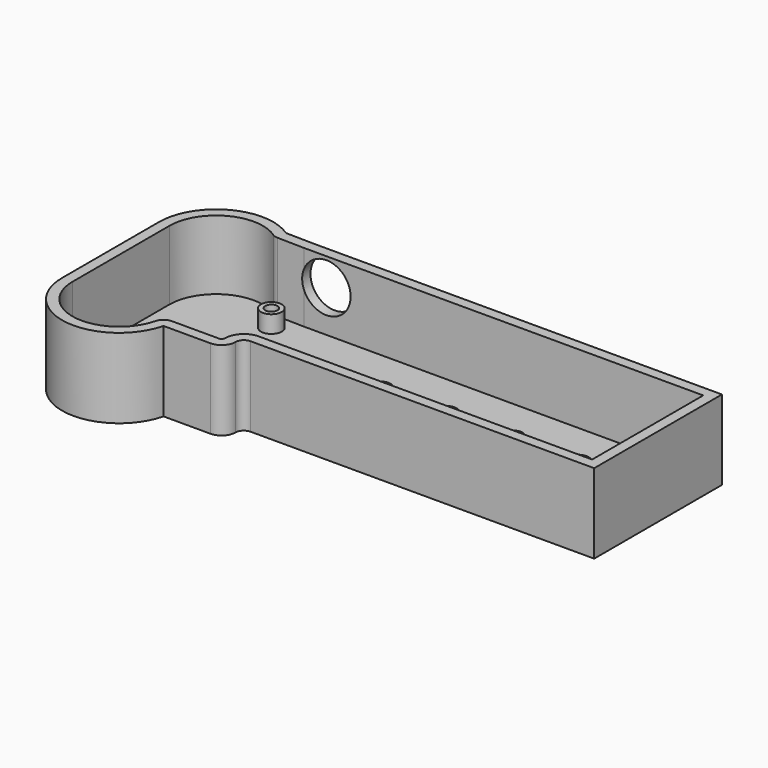
from build123d import *

# Parameters (mm, degrees)
PAD_DEPTH       = 23
POCKET_DEPTH    = 20
SKETCH002_R     = 3
PAD001_DEPTH    = 5
SKETCH003_R     = 1.75
POCKET001_DEPTH = 7
SKETCH004_R     = 7
POCKET002_DEPTH = 37


with BuildPart() as part:
    # Sketch (on Face1 of ShapeBinder) → Pad (new body)
    with BuildSketch(Plane.XY.offset(1.6)):
        with BuildLine():
            Line((65.104061, -85.85), (78.671175, -85.849875))
            ThreePointArc((78.671175, -85.849875), (81.499513, -84.678339), (82.67105, -81.850001))
            ThreePointArc((85.065002, -79.425001), (83.370362, -80.146209), (82.67105, -81.850001))
            Line((85.065002, -79.425001), (184.315, -79.425))
            Line((184.315, -79.425), (184.315, -33.325))
            Line((184.315, -33.325), (85.065, -33.325))
            Line((85.065, -33.325), (66.055583, -33.325))
            Line((66.055583, -33.325), (58.318648, -33.167991))
            ThreePointArc((58.318648, -33.167991), (41.347688, -32.282578), (32.59625, -46.85))
            Line((32.59625, -46.85), (32.59625, -81.85))
            ThreePointArc((32.59625, -81.85), (47.081166, -98.22649), (65.104061, -85.85))
        make_face()
    extrude(amount=PAD_DEPTH)

    # Sketch001 (on Face11 of Pad) → Pocket (cut)
    with BuildSketch(Plane.XY.offset(24.6)):
        with BuildLine():
            Line((85.065004, -76.42489), (181.315, -76.425))
            Line((181.315, -76.425), (181.315, -36.325))
            Line((181.315, -36.325), (66.055583, -36.325))
            ThreePointArc((66.055583, -36.325), (66.025147, -36.324846), (65.994715, -36.324382))
            Line((65.994715, -36.324382), (58.25778, -36.167373))
            ThreePointArc((58.25778, -36.167373), (57.41292, -36.028001), (56.641848, -35.655629))
            ThreePointArc((56.641848, -35.655629), (42.756517, -34.9312), (35.59625, -46.85))
            Line((35.59625, -46.85), (35.59625, -81.85))
            ThreePointArc((35.59625, -81.85), (47.447597, -95.248953), (62.193575, -85.122625))
            ThreePointArc((62.193575, -85.122625), (63.25771, -83.485372), (65.104092, -82.849876))
            Line((65.104092, -82.849876), (78.671175, -82.849878))
            ThreePointArc((78.671175, -82.849878), (79.378193, -82.557021), (79.67105, -81.850003))
            ThreePointArc((85.065004, -76.42489), (81.249022, -78.024869), (79.67105, -81.850003))
        make_face()
    extrude(amount=-POCKET_DEPTH, mode=Mode.SUBTRACT)

    # Sketch002 (on Face26 of Pocket) → Pad001 (join)
    with BuildSketch(Plane.XY.offset(4.6)):
        with Locations((64.665, -78.375)):
            Circle(SKETCH002_R)
        with Locations((49.065, -64.325)):
            Circle(SKETCH002_R)
        with Locations((60.665, -41.375)):
            Circle(SKETCH002_R)
        with Locations((104.065, -56.325)):
            Circle(SKETCH002_R)
        with Locations((123.165, -56.375)):
            Circle(SKETCH002_R)
        with Locations((142.215, -56.375)):
            Circle(SKETCH002_R)
        with Locations((161.265, -56.375)):
            Circle(SKETCH002_R)
    extrude(amount=PAD001_DEPTH)

    # Sketch003 (on Face37 of Pad001) → Pocket001 (cut)
    with BuildSketch(Plane.XY.offset(9.6)):
        with Locations((49.065, -64.325)):
            Circle(SKETCH003_R)
        with Locations((64.665, -78.375)):
            Circle(SKETCH003_R)
        with Locations((60.665, -41.375)):
            Circle(SKETCH003_R)
        with Locations((142.215, -56.375)):
            Circle(SKETCH003_R)
        with Locations((161.265, -56.375)):
            Circle(SKETCH003_R)
        with Locations((104.065, -56.325)):
            Circle(SKETCH003_R)
        with Locations((123.165, -56.375)):
            Circle(SKETCH003_R)
    extrude(amount=-POCKET001_DEPTH, mode=Mode.SUBTRACT)

    # Sketch004 → Pocket002 (cut)
    with BuildSketch(Plane.XZ):
        with Locations((72.507256, 16.6)):
            Circle(SKETCH004_R)
    extrude(amount=POCKET002_DEPTH, mode=Mode.SUBTRACT)


solid = part.part
